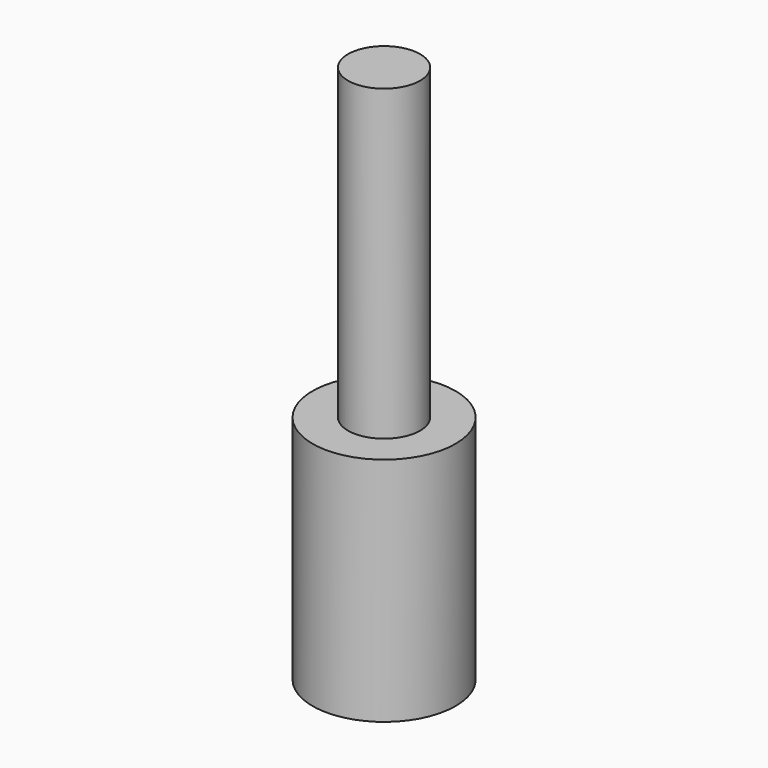
from build123d import *

# Parameters (mm, degrees)
F0_R     = 29.2004574819
F1_DEPTH = 47.1375919878
F2_R     = 14.7162856139
F3_DEPTH = 125.8117109537


with BuildPart() as f1:
    # F0 (on Top) → F1 (new body, symmetric)
    with BuildSketch(Plane.XY):
        Circle(F0_R)
    extrude(amount=F1_DEPTH, both=True)

    # F2 (on face) → F3 (join)
    with BuildSketch(Plane.XY.offset(47.1375919878)):
        Circle(F2_R)
    extrude(amount=F3_DEPTH)


solid = f1.part
